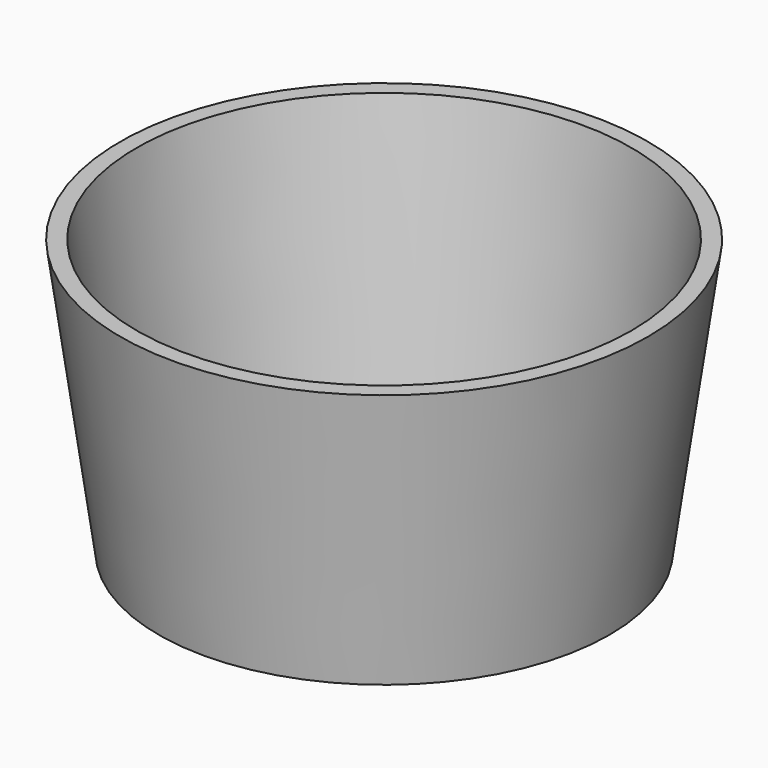
from build123d import *


with BuildPart() as obj1:
    # Cone → Cone (revolve)
    with BuildSketch(Plane.XZ):
        Polygon((0, 0), (38, 0), (45, 50), (0, 50), align=None)
    revolve(axis=Axis((0, 0, 0), (0, 0, 1)))


with BuildPart() as obj2:
    # Cone001 → Cone001 (revolve)
    with BuildSketch(Plane.XZ):
        Polygon((0, 0), (41, 0), (48, 50), (0, 50), align=None)
    revolve(axis=Axis((0, 0, 0), (0, 0, 1)))

    # Cut: cut obj1
    add(obj1.part, mode=Mode.SUBTRACT)


solid = obj2.part
